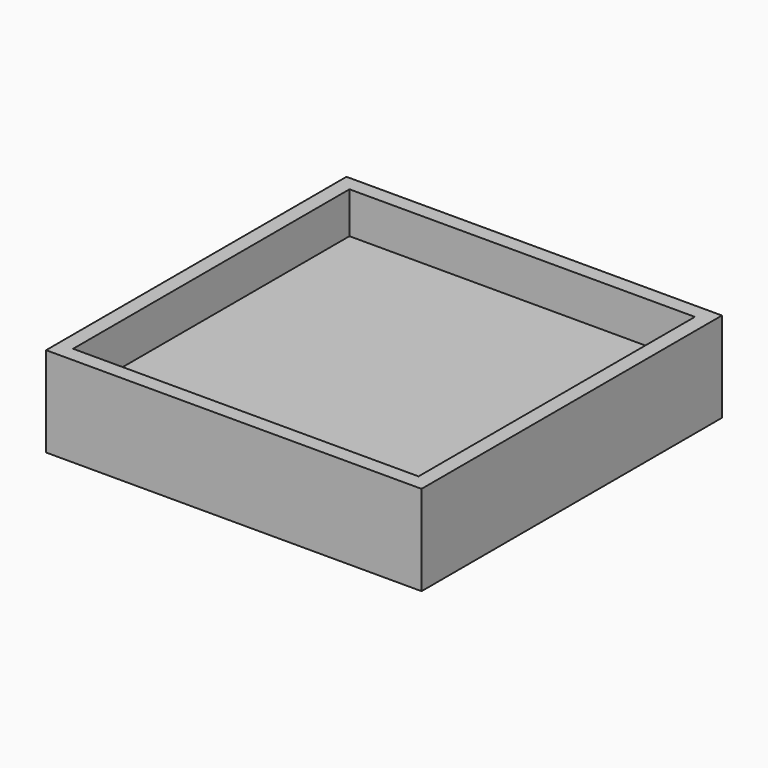
from build123d import *

# Parameters (mm, degrees)
F0_W     = 500
F0_H     = 120
F1_DEPTH = 500
F2_T     = -20
F3_W     = 460
F3_H     = 460
F4_DEPTH = 45


with BuildPart() as f1:
    # F0 (on Front) → F1 (new body)
    with BuildSketch(Plane.XZ):
        with Locations((250, 60)):
            Rectangle(F0_W, F0_H)
    extrude(amount=-F1_DEPTH)

    # F2
    f2_openings = [f1.faces().sort_by_distance(p)[0] for p in [
        (250, 250, 120),
    ]]
    offset(amount=F2_T, openings=f2_openings)

    # F3 (on face) → F4 (join)
    with BuildSketch(Plane.XY.offset(20)):
        with Locations((250, 250)):
            Rectangle(F3_W, F3_H)
    extrude(amount=F4_DEPTH)


solid = f1.part
